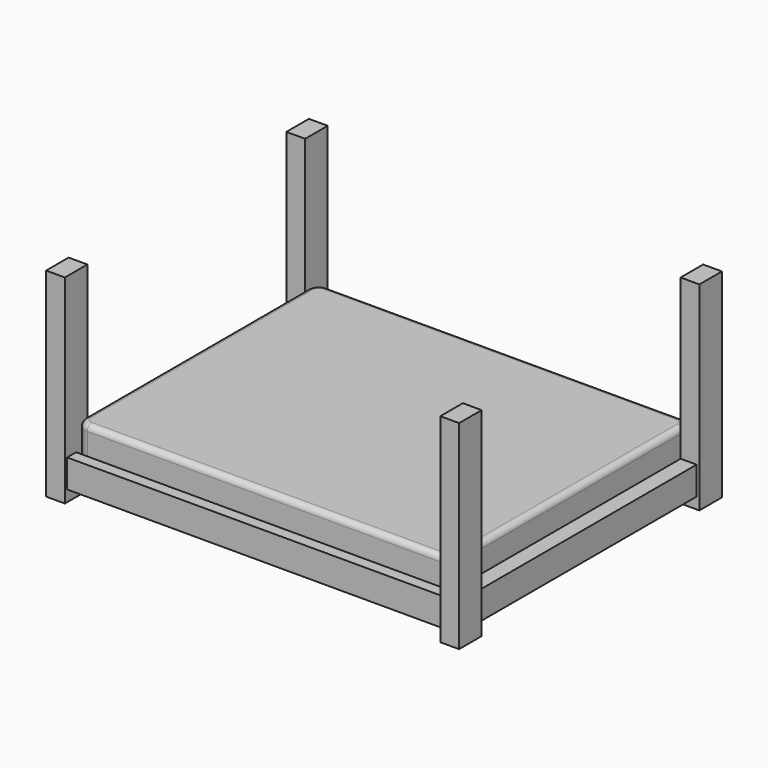
from build123d import *

# Parameters (mm, degrees)
SKETCH_W            = 2000
SKETCH_H            = 1600
PAD_DEPTH           = 210
FILLET_R            = 60
FILLET001_R         = 30
FILLET002_R         = 30
SKETCH001_W         = 120
SKETCH001_H         = 27
PAD001_DEPTH        = 1600
LINEARPATTERN_COUNT = 14
LINEARPATTERN_PITCH = 144.615385
PAD002_DEPTH        = 2000
SKETCH003_W         = 100
SKETCH003_H         = 150
PAD003_DEPTH        = 60
PAD003_DEPTH_BACK   = 1000
SKETCH004_W         = 85
SKETCH004_H         = 150
PAD004_DEPTH        = 1450


with BuildPart() as part:
    # Sketch → Pad (new body)
    with BuildSketch(Plane.XY):
        Rectangle(SKETCH_W, SKETCH_H)
    extrude(amount=PAD_DEPTH)

    # Fillet
    fillet_edges = [part.edges().sort_by_distance(p)[0] for p in [
        (1000, 800, 105),
        (1000, -800, 105),
        (-1000, -800, 105),
        (-1000, 800, 105),
    ]]
    fillet(fillet_edges, radius=FILLET_R)

    # Fillet001
    fillet001_edges = [part.edges().sort_by_distance(p)[0] for p in [
        (0, 800, 210),
    ]]
    fillet(fillet001_edges, radius=FILLET001_R)

    # Fillet002
    fillet002_edges = [part.edges().sort_by_distance(p)[0] for p in [
        (0, 800, 0),
    ]]
    fillet(fillet002_edges, radius=FILLET002_R)

    # Sketch001 (on Face1 of Fillet002) → Pad001 (join)
    with BuildSketch(Plane(origin=(0, 800, 0), x_dir=(-1, 0, 0), z_dir=(0, 1, 0))):
        with Locations((-940, -13.5)):
            Rectangle(SKETCH001_W, SKETCH001_H)
    pad001 = extrude(amount=-PAD001_DEPTH)

    # LinearPattern: Pad001 ×14
    with Locations(*[(-i * LINEARPATTERN_PITCH, 0, 0) for i in range(1, LINEARPATTERN_COUNT)]):
        add(pad001)

    # Sketch002 (on Face8 of LinearPattern) → Pad002 (join)
    with BuildSketch(Plane(origin=(-1000, 0, 0), x_dir=(0, -1, 0), z_dir=(-1, 0, 0))):
        Polygon((-860, 63), (-800, 63), (-800, -27), (-760, -27), (-760, -87), (-860, -87), align=None)
    pad002 = extrude(amount=-PAD002_DEPTH)

    # Mirrored: Pad002 across Sketch002 V_Axis
    add(pad002.mirror(Plane(origin=(-1000, 0, 0), x_dir=(-1, 0, 0), z_dir=(0, -1, 0))))

    # Sketch003 (on Face146 of Mirrored) → Pad003 (join, two sides)
    with BuildSketch(Plane(origin=(0, 0, -87), x_dir=(1, 0, 0), z_dir=(0, 0, -1))) as pad003_sk:
        with Locations((-1050, 800)):
            Rectangle(SKETCH003_W, SKETCH003_H)
        with Locations((1050, 800)):
            Rectangle(SKETCH003_W, SKETCH003_H)
        with Locations((1050, -800)):
            Rectangle(SKETCH003_W, SKETCH003_H)
        with Locations((-1050, -800)):
            Rectangle(SKETCH003_W, SKETCH003_H)
    extrude(amount=PAD003_DEPTH)
    extrude(pad003_sk.sketch, amount=-PAD003_DEPTH_BACK)

    # Sketch004 (on Face55 of Pad003) → Pad004 (join)
    with BuildSketch(Plane.XZ.offset(-725)):
        with Locations((-1042.5, -12)):
            Rectangle(SKETCH004_W, SKETCH004_H)
    pad004 = extrude(amount=PAD004_DEPTH)

    # Mirrored001: Pad004 across Sketch004 V_Axis
    add(pad004.mirror(Plane(origin=(0, 725, 0), x_dir=(0, -1, 0), z_dir=(1, 0, 0))))


solid = part.part
